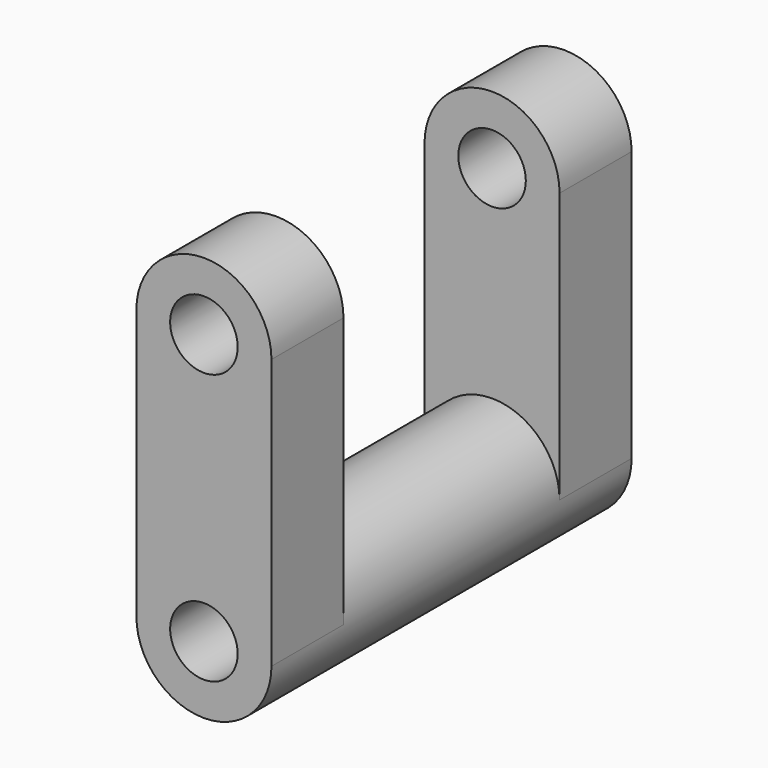
from build123d import *

# Parameters (mm, degrees)
F0_R     = 19.05
F1_DEPTH = 38.1
F3_DEPTH = 25.4
F5_DEPTH = 25.4
F6_R     = 9.525
F7_DEPTH = 138.43


with BuildPart() as f1:
    # F0 (on Front) → F1 (new body, symmetric)
    with BuildSketch(Plane.XZ):
        Circle(F0_R)
    extrude(amount=F1_DEPTH, both=True)

    # F2 (on face) → F3 (join)
    with BuildSketch(Plane(origin=(0, 38.1, 0), x_dir=(-1, 0, 0), z_dir=(0, 1, 0))):
        with BuildLine():
            ThreePointArc((-19.05, 0), (0, 19.05), (19.05, 0))
            Line((19.05, 0), (19.05, 76.2))
            Line((19.05, 76.2), (-19.05, 76.2))
            Line((-19.05, 76.2), (-19.05, 0))
        make_face()
        with BuildLine():
            Line((-19.05, 76.2), (19.05, 76.2))
            ThreePointArc((19.05, 76.2), (0, 95.25), (-19.05, 76.2))
        make_face()
        with BuildLine():
            ThreePointArc((-19.05, 0), (0, -19.05), (19.05, 0))
            ThreePointArc((19.05, 0), (0, 19.05), (-19.05, 0))
        make_face()
    extrude(amount=F3_DEPTH)

    # F4 (on face) → F5 (join)
    with BuildSketch(Plane.XZ.offset(38.1)):
        with BuildLine():
            Line((-19.05, 76.2), (19.05, 76.2))
            ThreePointArc((19.05, 76.2), (0, 95.25), (-19.05, 76.2))
        make_face()
        with BuildLine():
            ThreePointArc((-19.05, 0), (0, 19.05), (19.05, 0))
            Line((19.05, 0), (19.05, 76.2))
            Line((19.05, 76.2), (-19.05, 76.2))
            Line((-19.05, 76.2), (-19.05, 0))
        make_face()
        with BuildLine():
            ThreePointArc((-19.05, 0), (0, -19.05), (19.05, 0))
            ThreePointArc((19.05, 0), (0, 19.05), (-19.05, 0))
        make_face()
    extrude(amount=F5_DEPTH)

    # F6 (on face) → F7 (cut)
    with BuildSketch(Plane.XZ.offset(63.5)):
        with Locations((0, 76.2)):
            Circle(F6_R)
        Circle(F6_R)
    extrude(amount=-F7_DEPTH, mode=Mode.SUBTRACT)


solid = f1.part
